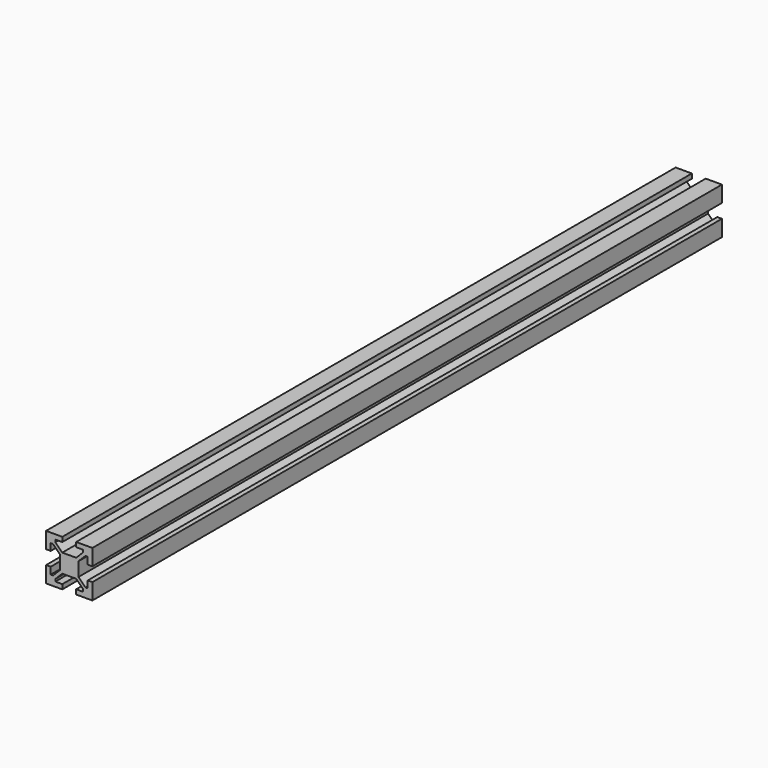
from build123d import *

# Parameters (mm, degrees)
F1_DEPTH = 340


with BuildPart() as f1:
    # F0 (on Front) → F1 (new body)
    with BuildSketch(Plane.XZ):
        Polygon((-48.226785, 51.734876), (-48.226785, 44.734876), (-46.226785, 44.734876), (-46.226785, 47.734876), (-45.226785, 47.734876), (-42.226785, 44.734876), (-42.226785, 38.734876), (-45.226785, 35.734876), (-46.226785, 35.734876), (-46.226785, 38.734876), (-48.226785, 38.734876), (-48.226785, 31.734876), (-41.226785, 31.734876), (-41.226785, 33.734876), (-44.226785, 33.734876), (-44.226785, 34.734876), (-41.226785, 37.734876), (-35.226785, 37.734876), (-32.226785, 34.734876), (-32.226785, 33.734876), (-35.226785, 33.734876), (-35.226785, 31.734876), (-28.226785, 31.734876), (-28.226785, 38.734876), (-30.226785, 38.734876), (-30.226785, 35.734876), (-31.226785, 35.734876), (-34.226785, 38.734876), (-34.226785, 44.734876), (-31.226785, 47.734876), (-30.226785, 47.734876), (-30.226785, 44.734876), (-28.226785, 44.734876), (-28.226785, 51.734876), (-35.226785, 51.734876), (-35.226785, 49.734876), (-32.226785, 49.734876), (-32.226785, 48.734876), (-35.226785, 45.734876), (-41.226785, 45.734876), (-44.226785, 48.734876), (-44.226785, 49.734876), (-41.226785, 49.734876), (-41.226785, 51.734876), align=None)
    extrude(amount=F1_DEPTH)


solid = f1.part
